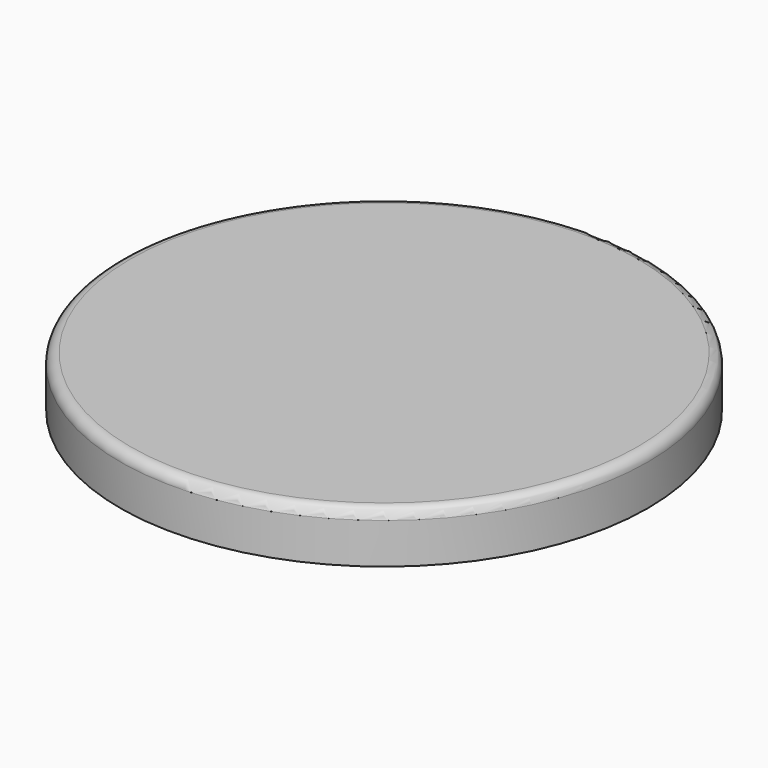
from build123d import *

# Parameters (mm, degrees)
F0_R     = 131.921172
F1_DEPTH = 25.4
F2_T     = -2.54
F3_R     = 5.08


with BuildPart() as f1:
    # F0 (on Top) → F1 (new body)
    with BuildSketch(Plane.XY):
        Circle(F0_R)
    extrude(amount=F1_DEPTH)

    # F2
    f2_openings = [f1.faces().sort_by_distance(p)[0] for p in [
        (0, 0, 0),
    ]]
    offset(amount=F2_T, openings=f2_openings)

    # F3
    f3_edges = [f1.edges().sort_by_distance(p)[0] for p in [
        (-131.921172, 0, 25.4),
    ]]
    fillet(f3_edges, radius=F3_R)


solid = f1.part
